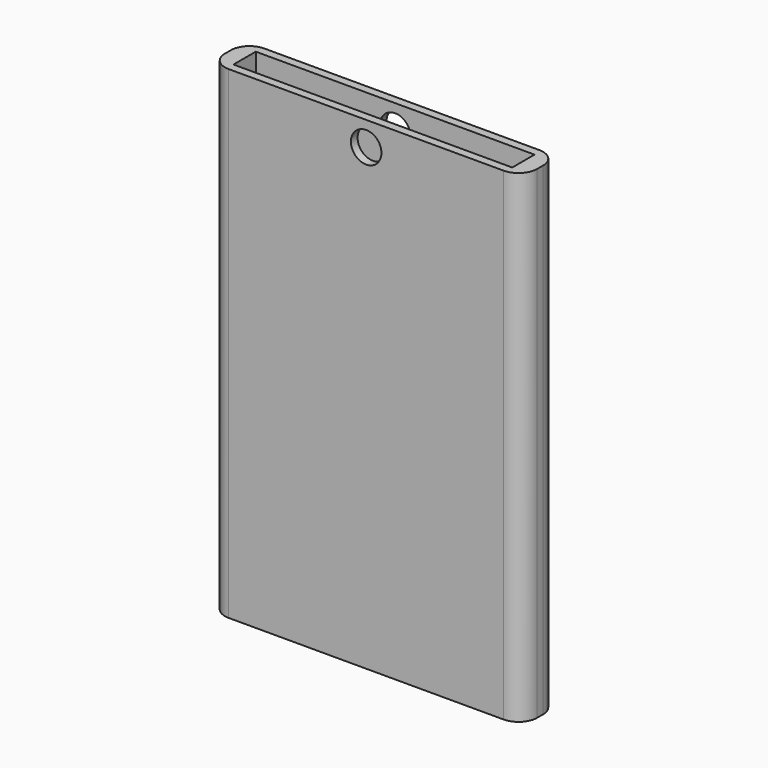
from build123d import *

# Parameters (mm, degrees)
F0_W          = 84
F0_H          = 12
F1_DEPTH      = 130
F3_W          = 75
F3_H          = 7.5
F4_DEPTH      = 127
F5_R          = 5
F6_R          = 4.1062425904
F7_DEPTH      = 6.001
F7_DEPTH_BACK = 25


with BuildPart() as f1:
    # F0 (on Top) → F1 (new body)
    with BuildSketch(Plane.XY):
        Rectangle(F0_W, F0_H)
    extrude(amount=F1_DEPTH)

    # F3 (on offset) → F4 (cut)
    with BuildSketch(Plane.XY.offset(130)):
        Rectangle(F3_W, F3_H)
    extrude(amount=-F4_DEPTH, mode=Mode.SUBTRACT)

    # F5
    f5_edges = [f1.edges().sort_by_distance(p)[0] for p in [
        (42, -6, 65),
        (42, 6, 65),
        (-42, 6, 65),
        (-42, -6, 65),
    ]]
    fillet(f5_edges, radius=F5_R)

    # F6 (on Front) → F7 (cut, two sides)
    with BuildSketch(Plane.XZ) as f7_sk:
        with Locations((0, 123.5107928514)):
            Circle(F6_R)
    extrude(amount=-F7_DEPTH, mode=Mode.SUBTRACT)
    extrude(f7_sk.sketch, amount=F7_DEPTH_BACK, mode=Mode.SUBTRACT)


solid = f1.part
